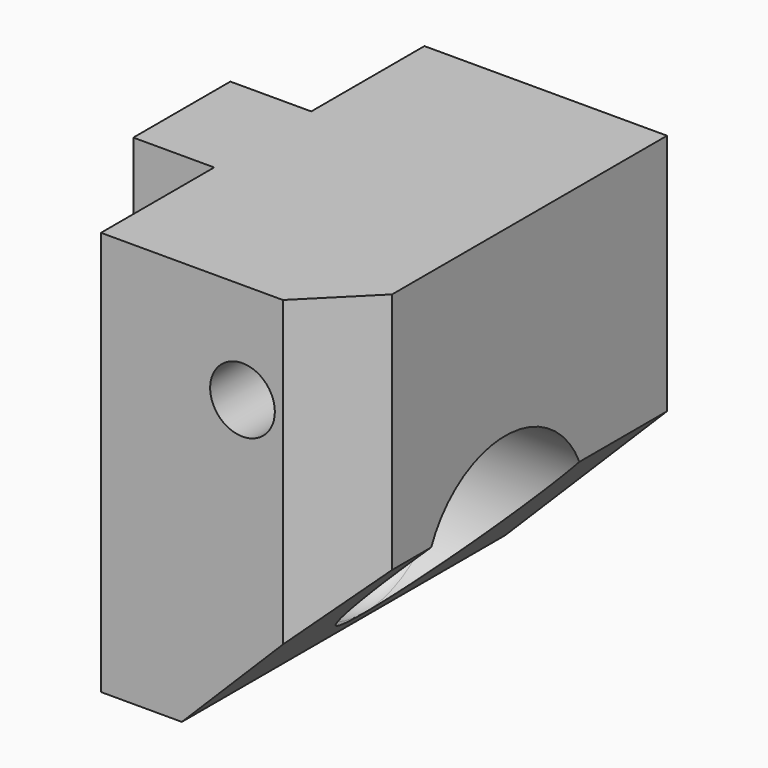
from build123d import *

# Parameters (mm, degrees)
CYLINDER002_R     = 2.6
CYLINDER002_DEPTH = 20
CYLINDER001_R     = 5
CYLINDER001_DEPTH = 16
FILLET_R          = 1
CYLINDER003_R     = 1.6
CYLINDER003_DEPTH = 28
CYLINDER_R        = 2.45
CYLINDER_DEPTH    = 30
BOX001_W          = 10
BOX001_H          = 6
BOX001_DEPTH      = 6
BOX_W             = 12
BOX_H             = 20
BOX_DEPTH         = 20
CHAMFER_SIZE      = 8
CHAMFER001_SIZE   = 3


with BuildPart() as cilindro002:
    # Cylinder002 → Cylinder002 (new body)
    with BuildSketch(Plane(origin=(-9, 10, 6), x_dir=(0, 0, -1), z_dir=(1, 0, 0))):
        Circle(CYLINDER002_R)
    extrude(amount=CYLINDER002_DEPTH)


with BuildPart() as fillet_body:
    # Cylinder001 → Cylinder001 (new body)
    with BuildSketch(Plane(origin=(6, 10, 6), x_dir=(0, 0, -1), z_dir=(1, 0, 0))):
        Circle(CYLINDER001_R)
    extrude(amount=CYLINDER001_DEPTH)

    # Fillet
    fillet_edges = [fillet_body.edges().sort_by_distance(p)[0] for p in [
        (6, 10, 11),
    ]]
    fillet(fillet_edges, radius=FILLET_R)


with BuildPart() as fillet_body_1:
    # Fillet placement: moved
    add(fillet_body.part.moved(Location((-4, 0, 0))))


with BuildPart() as cilindro003:
    # Cylinder003 → Cylinder003 (new body)
    with BuildSketch(Plane(origin=(7, 23, 15), x_dir=(1, 0, 0), z_dir=(0, -1, 0))):
        Circle(CYLINDER003_R)
    extrude(amount=CYLINDER003_DEPTH)


with BuildPart() as cilindro:
    # Cylinder → Cylinder (new body)
    with BuildSketch(Plane(origin=(7, 44, 15), x_dir=(1, 0, 0), z_dir=(0, -1, 0))):
        Circle(CYLINDER_R)
    extrude(amount=CYLINDER_DEPTH)


with BuildPart() as cubo001:
    # Box001 → Box001 (new body)
    with BuildSketch(Plane(origin=(-4, 7, 14), x_dir=(1, 0, 0), z_dir=(0, 0, 1))):
        with Locations((5, 3)):
            Rectangle(BOX001_W, BOX001_H)
    extrude(amount=BOX001_DEPTH)


with BuildPart() as chamfer001:
    # Box → Box (new body)
    with BuildSketch(Plane.XY):
        with Locations((6, 10)):
            Rectangle(BOX_W, BOX_H)
    extrude(amount=BOX_DEPTH)

    # Fusion: union Cubo001
    add(cubo001.part)

    # Cut: cut Cilindro
    add(cilindro.part, mode=Mode.SUBTRACT)

    # Cut001: cut Cilindro003
    add(cilindro003.part, mode=Mode.SUBTRACT)

    # Chamfer
    chamfer_edges = [chamfer001.edges().sort_by_distance(p)[0] for p in [
        (12, 10, 0),
    ]]
    chamfer(chamfer_edges, length=CHAMFER_SIZE)


with BuildPart() as chamfer001_1:
    # Chamfer placement: moved
    add(chamfer001.part.moved(Location((-2, 0, 0))))

    # Cut002: cut Fillet body
    add(fillet_body_1.part, mode=Mode.SUBTRACT)

    # Cut003: cut Cilindro002
    add(cilindro002.part, mode=Mode.SUBTRACT)

    # Chamfer001
    chamfer001_edges = [chamfer001_1.edges().sort_by_distance(p)[0] for p in [
        (10, 0, 14),
    ]]
    chamfer(chamfer001_edges, length=CHAMFER001_SIZE)


solid = chamfer001_1.part
